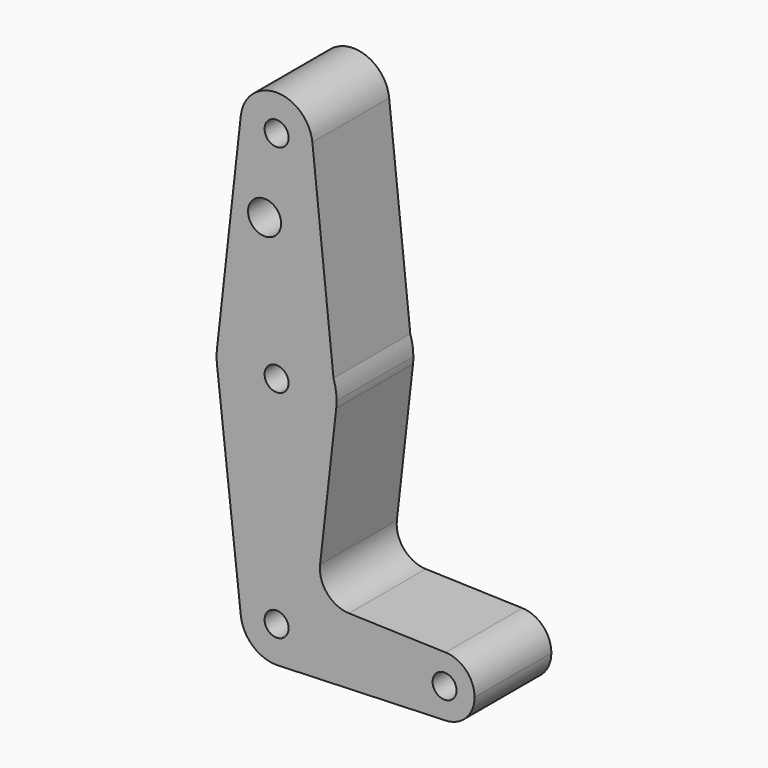
from build123d import *

# Parameters (mm, degrees)
F0_R     = 3.175
F0_R_2   = 4.376939
F1_DEPTH = 25.4


with BuildPart() as f1:
    # F0 (on Front) → F1 (new body)
    with BuildSketch(Plane.XZ):
        with BuildLine():
            ThreePointArc((-9.466021, 115.358333), (-0.529988, 104.789756), (9.525, 114.3))
            ThreePointArc((9.525, 114.3), (9.511932, 114.798775), (9.472763, 115.296182))
            ThreePointArc((9.472763, 115.296182), (0.031258, 123.824949), (-9.466021, 115.358333))
        make_face()
        with Locations((0, 114.3)):
            Circle(F0_R, mode=Mode.SUBTRACT)
        with BuildLine():
            ThreePointArc((9.472763, 115.296182), (9.511932, 114.798775), (9.525, 114.3))
            ThreePointArc((9.525, 114.3), (-0.529988, 104.789756), (-9.466021, 115.358333))
            Line((-9.466021, 115.358333), (-15.776702, 58.913889))
            ThreePointArc((-15.776702, 58.913889), (-1.668657, 72.937058), (15.059323, 62.173188))
            Line((15.059323, 62.173188), (9.472763, 115.296182))
        make_face()
        with Locations((-3.175, 93.6752)):
            Circle(F0_R_2, mode=Mode.SUBTRACT)
        with BuildLine():
            Line((15.774826, 55.369415), (15.059323, 62.173188))
            ThreePointArc((15.059323, 62.173188), (-1.668657, 72.937058), (-15.776702, 58.913889))
            ThreePointArc((-15.776702, 58.913889), (-15.875, 57.15), (-15.776702, 55.386111))
            ThreePointArc((-15.776702, 55.386111), (-0.0084, 41.275002), (15.774826, 55.369415))
        make_face()
        with Locations((0, 57.15)):
            Circle(F0_R, mode=Mode.SUBTRACT)
        with BuildLine():
            ThreePointArc((15.875, 57.15), (15.669754, 59.694491), (15.059323, 62.173188))
            Line((15.059323, 62.173188), (15.774826, 55.369415))
            ThreePointArc((15.774826, 55.369415), (15.849937, 56.2583), (15.875, 57.15))
        make_face()
        with BuildLine():
            Line((11.508284, 17.570614), (15.774826, 55.369415))
            ThreePointArc((15.774826, 55.369415), (-0.0084, 41.275002), (-15.776702, 55.386111))
            Line((-15.776702, 55.386111), (-9.466021, -1.058333))
            ThreePointArc((-9.466021, -1.058333), (-0.529988, 9.510244), (9.525, 0))
            Line((9.525, 0), (36.5125, 0))
            ThreePointArc((36.5125, 0), (38.925789, 5.699737), (44.698202, 7.933618))
            Line((44.698202, 7.933618), (19.159718, 8.732585))
            ThreePointArc((19.159718, 8.732585), (13.397682, 11.47525), (11.508284, 17.570614))
        make_face()
        Circle(F0_R)
        with BuildLine():
            ThreePointArc((9.525, 0), (-0.529988, 9.510244), (-9.466021, -1.058333))
            ThreePointArc((-9.466021, -1.058333), (-6.35, -7.099516), (0, -9.525))
            Line((0, -9.525), (0.677344, -9.500886))
            ThreePointArc((0.677344, -9.500886), (6.970557, -6.491299), (9.525, 0))
        make_face()
        Circle(F0_R, mode=Mode.SUBTRACT)
        with BuildLine():
            Line((36.5125, 0), (9.525, 0))
            ThreePointArc((9.525, 0), (6.970557, -6.491299), (0.677344, -9.500886))
            Line((0.677344, -9.500886), (44.732405, -7.932475))
            ThreePointArc((44.732405, -7.932475), (38.93809, -5.711633), (36.5125, 0))
        make_face()
        with BuildLine():
            Line((0.677344, -9.500886), (0, -9.525))
            ThreePointArc((0, -9.525), (0.338886, -9.51897), (0.677344, -9.500886))
        make_face()
        with BuildLine():
            ThreePointArc((52.3875, 0), (50.149737, 5.524211), (44.698202, 7.933618))
            ThreePointArc((44.698202, 7.933618), (38.925789, 5.699737), (36.5125, 0))
            Line((36.5125, 0), (41.275, 0))
            ThreePointArc((41.275, 0), (44.45, 3.175), (47.625, 0))
            Line((47.625, 0), (52.3875, 0))
        make_face()
        with BuildLine():
            Line((41.275, 0), (36.5125, 0))
            ThreePointArc((36.5125, 0), (38.93809, -5.711633), (44.732405, -7.932475))
            ThreePointArc((44.732405, -7.932475), (50.161633, -5.51191), (52.3875, 0))
            Line((52.3875, 0), (47.625, 0))
            ThreePointArc((47.625, 0), (44.45, -3.175), (41.275, 0))
        make_face()
    extrude(amount=F1_DEPTH)


solid = f1.part
